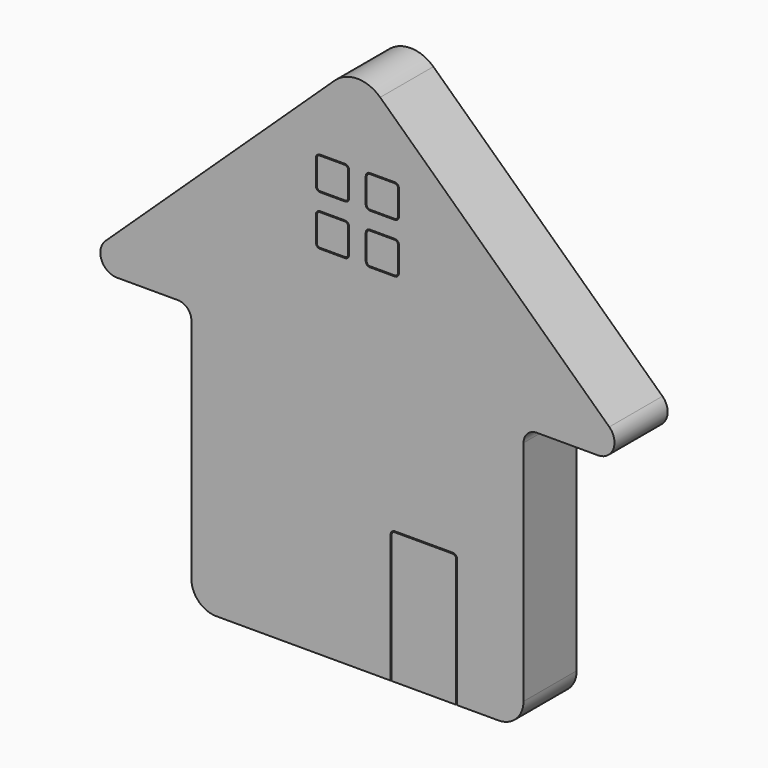
from build123d import *

# Parameters (mm, degrees)
F0_W     = 25.0974502414
F0_H     = 46.2554767728
F1_DEPTH = 25.4
F3_DEPTH = 25.4
F5_DEPTH = 25.4
F7_DEPTH = 25.4
F8_R     = 6.35
F9_R     = 12.7
F10_R    = 9.525
F11_R    = 5.08


with BuildPart() as f1:
    # F0 (on Front) → F1 (new body)
    with BuildSketch(Plane.XZ):
        Polygon((-63.5, 101.6), (-63.5, 0), (9.4117764384, 0), (9.4117764384, 46.2554767728), (34.5092266798, 46.2554767728), (34.5092266798, 0), (63.5, 0), (63.5, 101.6), (107.95, 101.6), (0, 203.2), (-107.95, 101.6), align=None)
        with Locations((21.9605015591, 23.1277383864)):
            Rectangle(F0_W, F0_H)
    extrude(amount=F1_DEPTH)

    # F2 (on face) → F3 (cut)
    with BuildSketch(Plane.XZ.offset(25.4)):
        with BuildLine():
            Line((14.2875, 168.275), (4.7625, 168.275))
            ThreePointArc((4.7625, 168.275), (3.6399679849, 167.8100320151), (3.175, 166.6875))
            Line((3.175, 166.6875), (3.175, 157.1625))
            ThreePointArc((3.175, 157.1625), (3.6399679849, 156.0399679849), (4.7625, 155.575))
            Line((4.7625, 155.575), (14.2875, 155.575))
            ThreePointArc((14.2875, 155.575), (15.4100320151, 156.0399679849), (15.875, 157.1625))
            Line((15.875, 157.1625), (15.875, 166.6875))
            ThreePointArc((15.875, 166.6875), (15.4100320151, 167.8100320151), (14.2875, 168.275))
        make_face()
        with BuildLine():
            Line((-4.7625, 149.225), (-14.2875, 149.225))
            ThreePointArc((-14.2875, 149.225), (-15.4100320151, 148.7600320151), (-15.875, 147.6375))
            Line((-15.875, 147.6375), (-15.875, 138.1125))
            ThreePointArc((-15.875, 138.1125), (-15.4100320151, 136.9899679849), (-14.2875, 136.525))
            Line((-14.2875, 136.525), (-4.7625, 136.525))
            ThreePointArc((-4.7625, 136.525), (-3.6399679849, 136.9899679849), (-3.175, 138.1125))
            Line((-3.175, 138.1125), (-3.175, 147.6375))
            ThreePointArc((-3.175, 147.6375), (-3.6399679849, 148.7600320151), (-4.7625, 149.225))
        make_face()
        with BuildLine():
            Line((14.2875, 149.225), (4.7625, 149.225))
            ThreePointArc((4.7625, 149.225), (3.6399679849, 148.7600320151), (3.175, 147.6375))
            Line((3.175, 147.6375), (3.175, 138.1125))
            ThreePointArc((3.175, 138.1125), (3.6399679849, 136.9899679849), (4.7625, 136.525))
            Line((4.7625, 136.525), (14.2875, 136.525))
            ThreePointArc((14.2875, 136.525), (15.4100320151, 136.9899679849), (15.875, 138.1125))
            Line((15.875, 138.1125), (15.875, 147.6375))
            ThreePointArc((15.875, 147.6375), (15.4100320151, 148.7600320151), (14.2875, 149.225))
        make_face()
        with BuildLine():
            Line((-4.7625, 168.275), (-14.2875, 168.275))
            ThreePointArc((-14.2875, 168.275), (-15.4100320151, 167.8100320151), (-15.875, 166.6875))
            Line((-15.875, 166.6875), (-15.875, 157.1625))
            ThreePointArc((-15.875, 157.1625), (-15.4100320151, 156.0399679849), (-14.2875, 155.575))
            Line((-14.2875, 155.575), (-4.7625, 155.575))
            ThreePointArc((-4.7625, 155.575), (-3.6399679849, 156.0399679849), (-3.175, 157.1625))
            Line((-3.175, 157.1625), (-3.175, 166.6875))
            ThreePointArc((-3.175, 166.6875), (-3.6399679849, 167.8100320151), (-4.7625, 168.275))
        make_face()
    extrude(amount=-F3_DEPTH, mode=Mode.SUBTRACT)

    # F6 (on face) → F7 (cut)
    with BuildSketch(Plane.XZ.offset(25.4)):
        with BuildLine():
            Line((12.7, 49.2125), (12.7, 0))
            Line((12.7, 0), (13.081, 0))
            Line((13.081, 0), (13.081, 49.2125))
            ThreePointArc((13.081, 49.2125), (13.4343756685, 50.0656243315), (14.2875, 50.419))
            Line((14.2875, 50.419), (36.5125, 50.419))
            ThreePointArc((36.5125, 50.419), (37.3656243315, 50.0656243315), (37.719, 49.2125))
            Line((37.719, 49.2125), (37.719, 0))
            Line((37.719, 0), (38.1, 0))
            Line((38.1, 0), (38.1, 49.2125))
            ThreePointArc((38.1, 49.2125), (37.6350320151, 50.3350320151), (36.5125, 50.8))
            Line((36.5125, 50.8), (14.2875, 50.8))
            ThreePointArc((14.2875, 50.8), (13.1649679849, 50.3350320151), (12.7, 49.2125))
        make_face()
    extrude(amount=-F7_DEPTH, mode=Mode.SUBTRACT)

    # F8
    f8_edges = [f1.edges().sort_by_distance(p)[0] for p in [
        (107.95, -12.7, 101.6),
        (-107.95, -12.7, 101.6),
    ]]
    fillet(f8_edges, radius=F8_R)

    # F9
    f9_edges = [f1.edges().sort_by_distance(p)[0] for p in [
        (0, -12.7, 203.2),
    ]]
    fillet(f9_edges, radius=F9_R)

    # F10
    f10_edges = [f1.edges().sort_by_distance(p)[0] for p in [
        (63.5, -12.7, 0),
        (-63.5, -12.7, 0),
    ]]
    fillet(f10_edges, radius=F10_R)

    # F11
    f11_edges = [f1.edges().sort_by_distance(p)[0] for p in [
        (-63.5, -12.7, 101.6),
        (63.5, -12.7, 101.6),
    ]]
    fillet(f11_edges, radius=F11_R)


with BuildPart() as f5:
    # F4 (on face) → F5 (new body)
    with BuildSketch(Plane.XZ.offset(25.4)):
        with BuildLine():
            Line((-4.7625, 167.894), (-14.2875, 167.894))
            ThreePointArc((-14.2875, 167.894), (-15.1406243315, 167.5406243315), (-15.494, 166.6875))
            Line((-15.494, 166.6875), (-15.494, 157.1625))
            ThreePointArc((-15.494, 157.1625), (-15.1406243315, 156.3093756685), (-14.2875, 155.956))
            Line((-14.2875, 155.956), (-4.7625, 155.956))
            ThreePointArc((-4.7625, 155.956), (-3.9093756685, 156.3093756685), (-3.556, 157.1625))
            Line((-3.556, 157.1625), (-3.556, 166.6875))
            ThreePointArc((-3.556, 166.6875), (-3.9093756685, 167.5406243315), (-4.7625, 167.894))
        make_face()
    extrude(amount=-F5_DEPTH)


with BuildPart() as f5b:
    # F4 (on face) → F5, piece 2 (new body)
    with BuildSketch(Plane.XZ.offset(25.4)):
        with BuildLine():
            Line((14.2875, 167.894), (4.7625, 167.894))
            ThreePointArc((4.7625, 167.894), (3.9093756685, 167.5406243315), (3.556, 166.6875))
            Line((3.556, 166.6875), (3.556, 157.1625))
            ThreePointArc((3.556, 157.1625), (3.9093756685, 156.3093756685), (4.7625, 155.956))
            Line((4.7625, 155.956), (14.2875, 155.956))
            ThreePointArc((14.2875, 155.956), (15.1406243315, 156.3093756685), (15.494, 157.1625))
            Line((15.494, 157.1625), (15.494, 166.6875))
            ThreePointArc((15.494, 166.6875), (15.1406243315, 167.5406243315), (14.2875, 167.894))
        make_face()
    extrude(amount=-F5_DEPTH)


with BuildPart() as f5c:
    # F4 (on face) → F5, piece 3 (new body)
    with BuildSketch(Plane.XZ.offset(25.4)):
        with BuildLine():
            Line((-4.7625, 148.8440036774), (-14.2875, 148.8440036774))
            ThreePointArc((-14.2875, 148.8440036774), (-15.1406269318, 148.4906269318), (-15.4940036774, 147.6375))
            Line((-15.4940036774, 147.6375), (-15.4940036774, 138.1125))
            ThreePointArc((-15.4940036774, 138.1125), (-15.1406269318, 137.2593730682), (-14.2875, 136.9059963226))
            Line((-14.2875, 136.9059963226), (-4.7625, 136.9059963226))
            ThreePointArc((-4.7625, 136.9059963226), (-3.9093730682, 137.2593730682), (-3.5559963226, 138.1125))
            Line((-3.5559963226, 138.1125), (-3.5559963226, 147.6375))
            ThreePointArc((-3.5559963226, 147.6375), (-3.9093730682, 148.4906269318), (-4.7625, 148.8440036774))
        make_face()
    extrude(amount=-F5_DEPTH)


with BuildPart() as f5d:
    # F4 (on face) → F5, piece 4 (new body)
    with BuildSketch(Plane.XZ.offset(25.4)):
        with BuildLine():
            Line((14.2875, 148.844), (4.7625, 148.844))
            ThreePointArc((4.7625, 148.844), (3.9093756685, 148.4906243315), (3.556, 147.6375))
            Line((3.556, 147.6375), (3.556, 138.1125))
            ThreePointArc((3.556, 138.1125), (3.9093756685, 137.2593756685), (4.7625, 136.906))
            Line((4.7625, 136.906), (14.2875, 136.906))
            ThreePointArc((14.2875, 136.906), (15.1406243315, 137.2593756685), (15.494, 138.1125))
            Line((15.494, 138.1125), (15.494, 147.6375))
            ThreePointArc((15.494, 147.6375), (15.1406243315, 148.4906243315), (14.2875, 148.844))
        make_face()
    extrude(amount=-F5_DEPTH)


solid = Compound([f1.part, f5.part, f5b.part, f5c.part, f5d.part])
